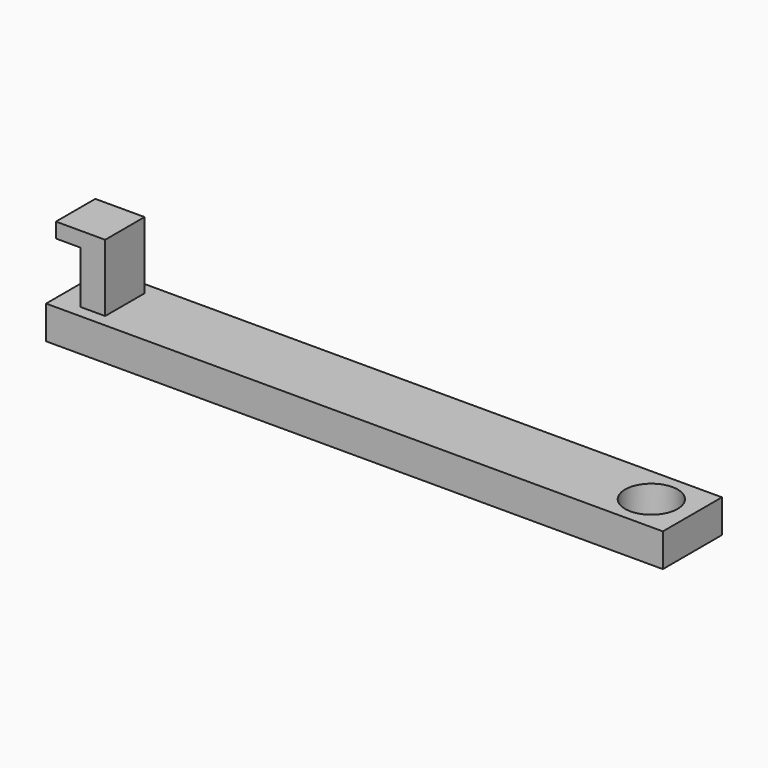
from build123d import *

# Parameters (mm, degrees)
F0_W     = 92.7622355521
F0_H     = 11.1067872494
F0_R     = 3.9563607237
F0_W_2   = 3.7022642791
F0_H_2   = 7.4045229703
F1_DEPTH = 5
F2_DEPTH = 15.1
F3_W     = 7.4045229703
F3_H     = 2.2449219063
F4_DEPTH = 3.7022568285


with BuildPart() as f1:
    # F0 (on Top) → F1 (new body)
    with BuildSketch(Plane.XY):
        with Locations((-1.0284055024, 24.7845901176)):
            Rectangle(F0_W, F0_H)
        Polygon((-40.0050021708, 28.4868516028), (-36.3027378917, 28.4868516028), (-36.3027378917, 21.0823286325), (-40.0050021708, 21.0823286325), (-43.7072664499, 21.0823286325), (-43.7072664499, 28.4868516028), align=None, mode=Mode.SUBTRACT)
        with Locations((39.1822755337, 24.7845901176)):
            Circle(F0_R, mode=Mode.SUBTRACT)
        with Locations((-38.1538700312, 24.7845901176)):
            Rectangle(F0_W_2, F0_H_2)
    extrude(amount=F1_DEPTH)

    # F0 (on Top) → F2 (join)
    with BuildSketch(Plane.XY):
        with Locations((-41.8561343104, 24.7845901176)):
            Rectangle(F0_W_2, F0_H_2)
    extrude(amount=F2_DEPTH)

    # F3 (on face) → F4 (join, through all)
    with BuildSketch(Plane(origin=(-43.7072664499, 0, 0), x_dir=(0, -1, 0), z_dir=(-1, 0, 0))):
        with Locations((-24.7845901176, 13.9775390469)):
            Rectangle(F3_W, F3_H)
    extrude(amount=F4_DEPTH)


solid = f1.part
